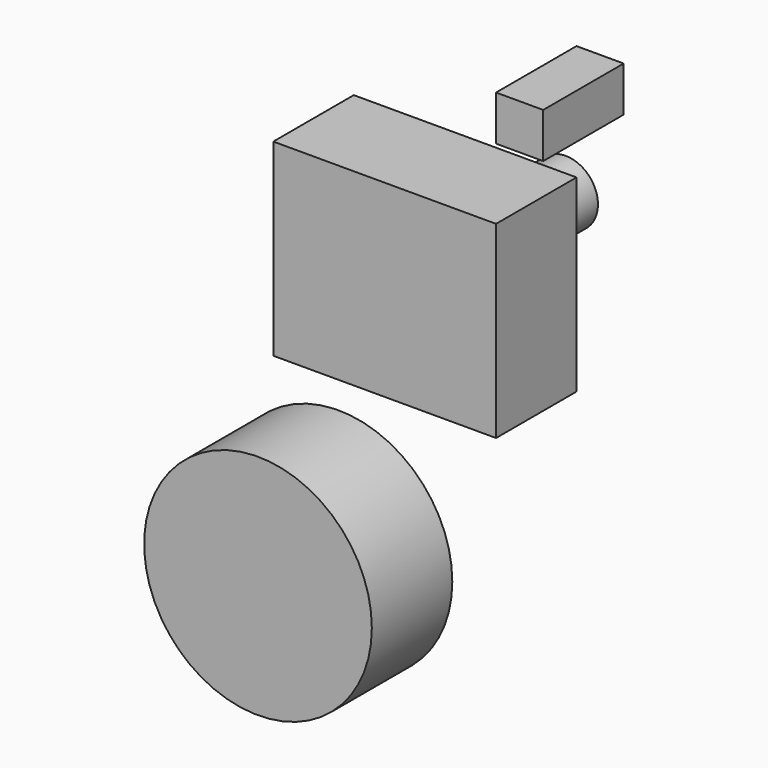
from build123d import *

# Parameters (mm, degrees)
F0_W     = 11.906259
F0_H     = 11.374541
F0_W_2   = 56.257025
F0_H_2   = 47.629695
F1_DEPTH = 25.4
F2_R     = 8.14605
F3_DEPTH = 25.4
F5_R     = 28.755201
F6_DEPTH = 25.4


with BuildPart() as f1:
    # F0 (on Front) → F1 (new body)
    with BuildSketch(Plane.XZ):
        with Locations((66.079702, 71.41016)):
            Rectangle(F0_W, F0_H)
        with Locations((31.998061, 24.085229)):
            Rectangle(F0_W_2, F0_H_2)
    extrude(amount=F1_DEPTH)

    # F2 (on face) → F3 (join)
    with BuildSketch(Plane(origin=(0, 0, 0), x_dir=(-1, 0, 0), z_dir=(0, 1, 0))):
        with Locations((-37.079394, 26.725367)):
            Circle(F2_R)
    extrude(amount=F3_DEPTH)


with BuildPart() as f6:
    # F5 (on Front) → F6 (new body)
    with BuildSketch(Plane.XZ):
        with Locations((0, -52.175067)):
            Circle(F5_R)
    extrude(amount=F6_DEPTH)


solid = Compound([f1.part, f6.part])
